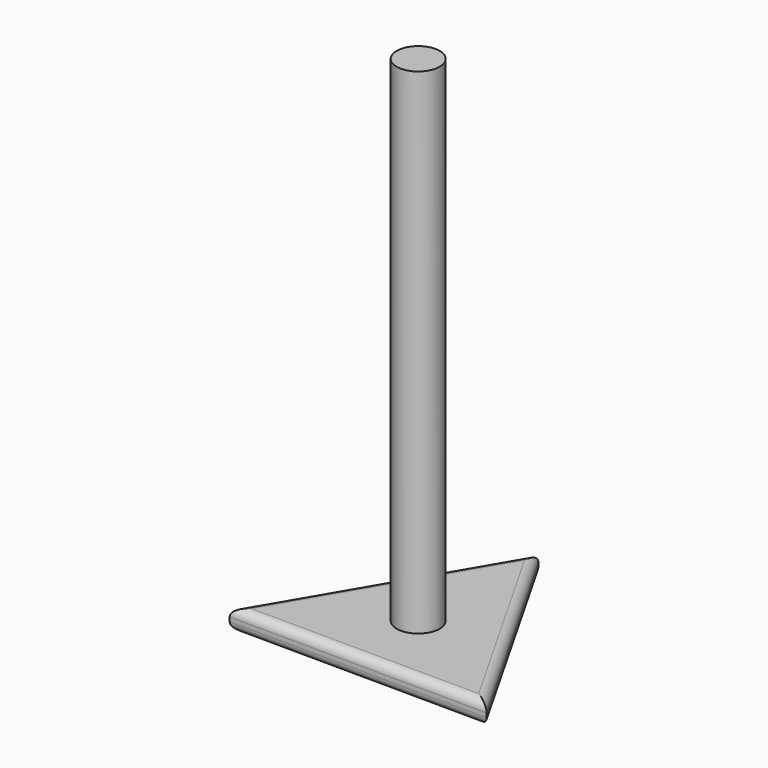
from build123d import *

# Parameters (mm, degrees)
F1_DEPTH = 12.7
F2_R     = 12.7
F3_DEPTH = 304.8
F4_R     = 5.08
F5_R     = 5.08


with BuildPart() as f1:
    # F0 (on Top) → F1 (new body)
    with BuildSketch(Plane.XY):
        Polygon((0.525394, 87.986612), (-76.461339, -43.538301), (75.935944, -44.448311), align=None)
    extrude(amount=F1_DEPTH)

    # F2 (on Top) → F3 (join)
    with BuildSketch(Plane.XY):
        Circle(F2_R)
    extrude(amount=F3_DEPTH)

    # F4
    f4_edges = [f1.edges().sort_by_distance(p)[0] for p in [
        (-37.967972, 22.224156, 12.7),
        (38.230669, 21.769151, 12.7),
        (-0.262697, -43.993306, 12.7),
    ]]
    fillet(f4_edges, radius=F4_R)

    # F5
    f5_edges = [f1.edges().sort_by_distance(p)[0] for p in [
        (38.230669, 21.769151, 0),
        (-37.967972, 22.224156, 0),
        (-0.262697, -43.993306, 0),
    ]]
    fillet(f5_edges, radius=F5_R)


solid = f1.part
